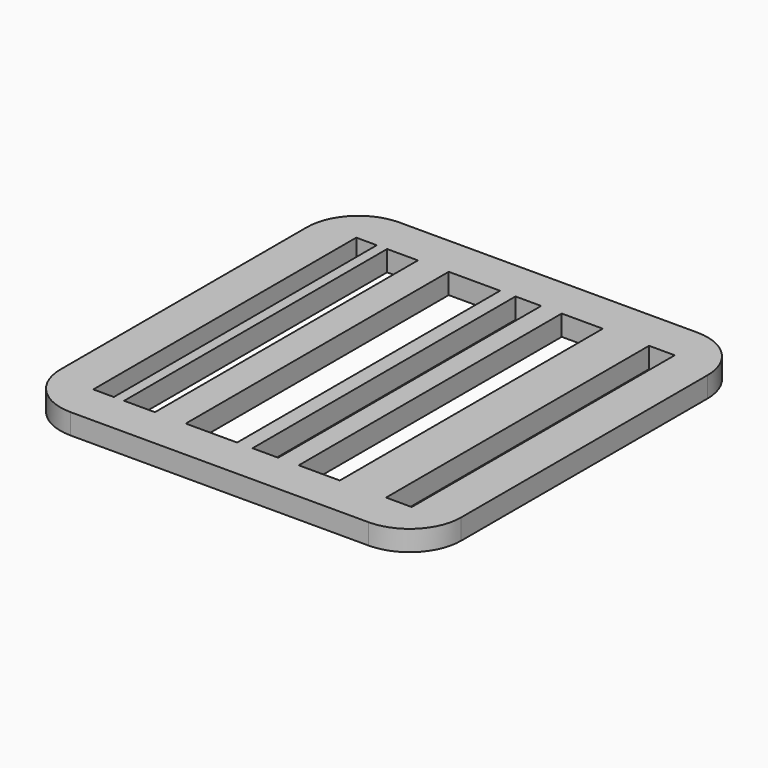
from build123d import *

# Parameters (mm, degrees)
F0_W     = 39
F0_H     = 40
F0_W_2   = 2
F0_H_2   = 32
F0_W_3   = 3
F0_W_4   = 5
F0_W_5   = 4
F0_W_6   = 2.5
F1_DEPTH = 2
F2_R     = 5


with BuildPart() as f1:
    # F0 (on Top) → F1 (new body)
    with BuildSketch(Plane.XY):
        with Locations((19.5, 20)):
            Rectangle(F0_W, F0_H)
        with Locations((5, 20)):
            Rectangle(F0_W_2, F0_H_2, mode=Mode.SUBTRACT)
        with Locations((8.5, 20)):
            Rectangle(F0_W_3, F0_H_2, mode=Mode.SUBTRACT)
        with Locations((15.5, 20)):
            Rectangle(F0_W_4, F0_H_2, mode=Mode.SUBTRACT)
        Polygon((22, 4), (21, 4), (19.5, 4), (19.5, 36), (21, 36), (22, 36), align=None, mode=Mode.SUBTRACT)
        with Locations((26, 20)):
            Rectangle(F0_W_5, F0_H_2, mode=Mode.SUBTRACT)
        with Locations((33.75, 20)):
            Rectangle(F0_W_6, F0_H_2, mode=Mode.SUBTRACT)
    extrude(amount=F1_DEPTH)

    # F2
    f2_edges = [f1.edges().sort_by_distance(p)[0] for p in [
        (39, 40, 1),
        (39, 0, 1),
        (0, 0, 1),
        (0, 40, 1),
    ]]
    fillet(f2_edges, radius=F2_R)


solid = f1.part
